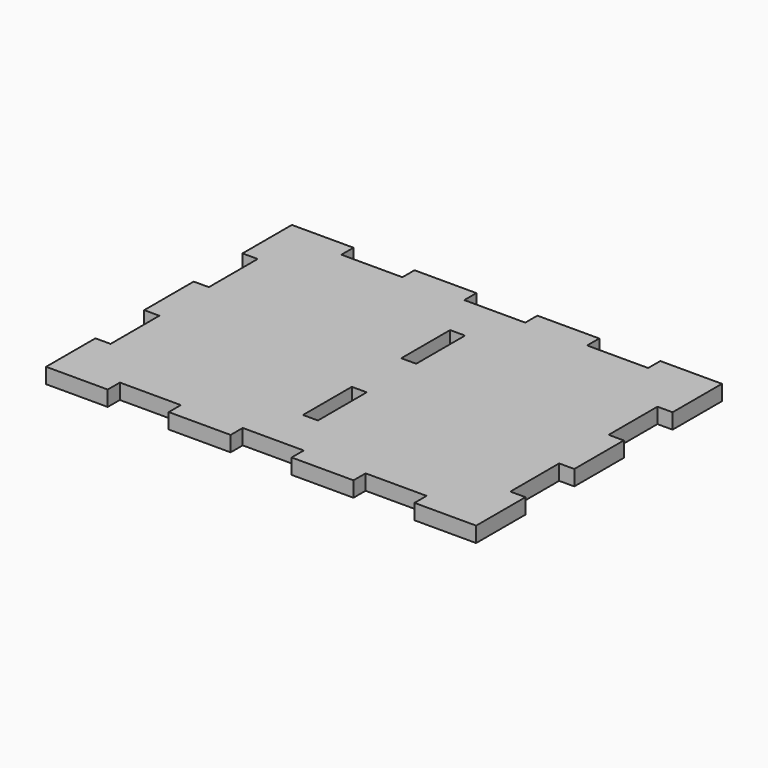
from build123d import *

# Parameters (mm, degrees)
F1_DEPTH = 6.35
F2_W     = 6.1722
F2_H     = 25.2222
F3_DEPTH = 25.4


with BuildPart() as f1:
    # F0 (on Top) → F1 (new body)
    with BuildSketch(Plane.XY):
        Polygon((-27.544599, 46.600503), (-53.033499, 46.600503), (-53.033499, 21.111603), (-46.772399, 21.111603), (-46.772399, -4.110597), (-53.033499, -4.110597), (-53.033499, -29.688397), (-46.772399, -29.688397), (-46.772399, -54.910597), (-53.033499, -54.910597), (-53.033499, -80.399497), (-27.544599, -80.399497), (-27.544599, -74.138397), (-2.322399, -74.138397), (-2.322399, -80.399497), (23.255401, -80.399497), (23.255401, -74.138397), (48.477601, -74.138397), (48.477601, -80.399497), (74.055401, -80.399497), (74.055401, -74.138397), (99.277601, -74.138397), (99.277601, -80.399497), (124.766501, -80.399497), (124.766501, -54.910597), (118.505401, -54.910597), (118.505401, -29.688397), (124.766501, -29.688397), (124.766501, -4.110597), (118.505401, -4.110597), (118.505401, 21.111603), (124.766501, 21.111603), (124.766501, 46.600503), (99.277601, 46.600503), (99.277601, 40.339403), (74.055401, 40.339403), (74.055401, 46.600503), (48.477601, 46.600503), (48.477601, 40.339403), (23.255401, 40.339403), (23.255401, 46.600503), (-2.322399, 46.600503), (-2.322399, 40.339403), (-27.544599, 40.339403), align=None)
    extrude(amount=F1_DEPTH)

    # F2 (on face) → F3 (cut)
    with BuildSketch(Plane.XY.offset(6.35)):
        with Locations((35.866501, -42.299497)):
            Rectangle(F2_W, F2_H)
        with Locations((35.866501, 8.500503)):
            Rectangle(F2_W, F2_H)
    extrude(amount=-F3_DEPTH, mode=Mode.SUBTRACT)


solid = f1.part
